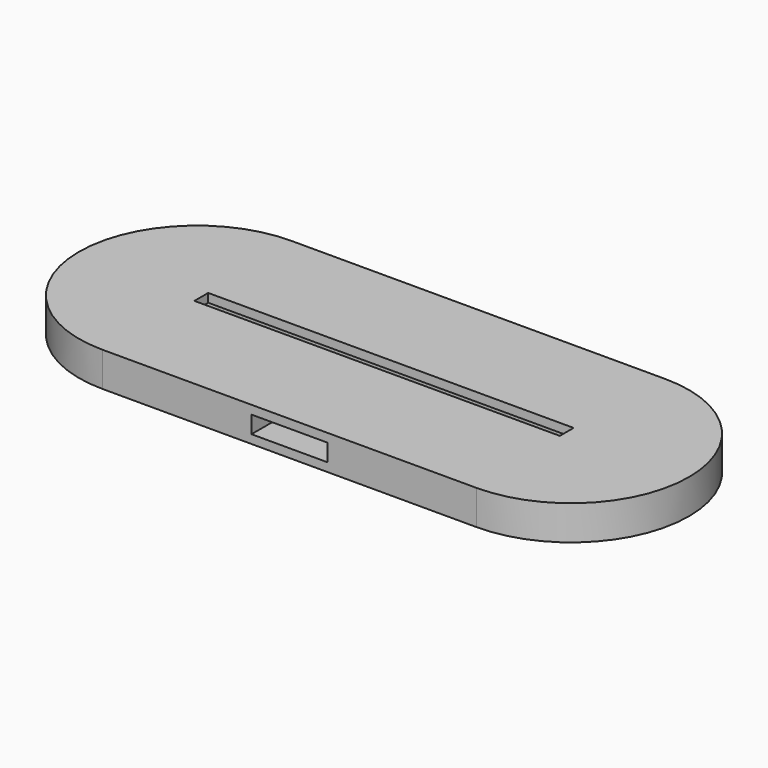
from build123d import *

# Parameters (mm, degrees)
PAD_DEPTH       = 9
POCKET_DEPTH    = 6
SKETCH002_W     = 26.5
SKETCH002_H     = 35
POCKET001_DEPTH = 6
SKETCH003_W     = 127
SKETCH003_H     = 6
PAD001_DEPTH    = 3


with BuildPart() as part:
    # Sketch → Pad (new body)
    with BuildSketch(Plane.XY):
        with BuildLine():
            ThreePointArc((-65, 41), (-106, 0), (-65, -41))
            Line((-65, -41), (65, -41))
            ThreePointArc((65, -41), (106, 0), (65, 41))
            Line((-65, 41), (65, 41))
        make_face()
    extrude(amount=PAD_DEPTH)

    # Sketch001 (on Face6 of Pad) → Pocket (cut)
    with BuildSketch(Plane.XY.offset(9)):
        with BuildLine():
            ThreePointArc((-62.5, 6), (-68.5, 0), (-62.5, -6))
            Line((-62.5, -6), (62.5, -6))
            ThreePointArc((62.5, -6), (68.5, 0), (62.5, 6))
            Line((-62.5, 6), (62.5, 6))
        make_face()
    extrude(amount=-POCKET_DEPTH, mode=Mode.SUBTRACT)

    # Sketch002 (on Face5 of Pocket) → Pocket001 (cut)
    with BuildSketch(Plane.XY.offset(9)):
        with Locations((0, -23.5)):
            Rectangle(SKETCH002_W, SKETCH002_H)
    extrude(amount=-POCKET001_DEPTH, mode=Mode.SUBTRACT)

    # Sketch003 (on Face5 of Pocket001) → Pad001 (join)
    with BuildSketch(Plane.XY.offset(9)):
        with BuildLine():
            ThreePointArc((-65, 41), (-106, 0), (-65, -41))
            Line((-65, -41), (65, -41))
            ThreePointArc((65, -41), (106, 0), (65, 41))
            Line((-65, 41), (65, 41))
        make_face()
        Rectangle(SKETCH003_W, SKETCH003_H, mode=Mode.SUBTRACT)
    extrude(amount=PAD001_DEPTH)


solid = part.part
